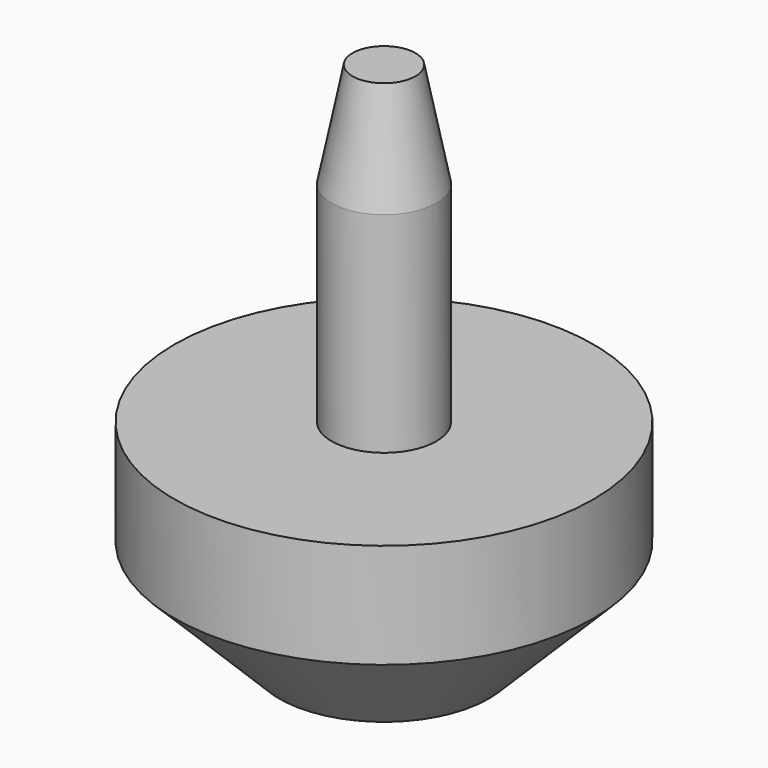
from build123d import *

# Parameters (mm, degrees)
F0_R     = 4
F1_DEPTH = 4
F2_R     = 1
F3_DEPTH = 6
F4_SIZE2 = 2
F4_SIZE  = 0.4
F5_SIZE2 = 2
F5_SIZE  = 2


with BuildPart() as f1:
    # F0 (on Top) → F1 (new body)
    with BuildSketch(Plane.XY):
        Circle(F0_R)
    extrude(amount=F1_DEPTH)

    # F2 (on face) → F3 (join)
    with BuildSketch(Plane.XY.offset(4)):
        Circle(F2_R)
    extrude(amount=F3_DEPTH)

    # F4
    f4_edges = [f1.edges().sort_by_distance(p)[0] for p in [
        (-1, 0, 10),
    ]]
    f4_side = f1.faces().sort_by_distance((0, 0, 10))[0]
    chamfer(f4_edges, length=F4_SIZE, length2=F4_SIZE2, reference=f4_side)

    # F5
    f5_edges = [f1.edges().sort_by_distance(p)[0] for p in [
        (-4, 0, 0),
    ]]
    chamfer(f5_edges, length=F5_SIZE, length2=F5_SIZE2)


solid = f1.part
